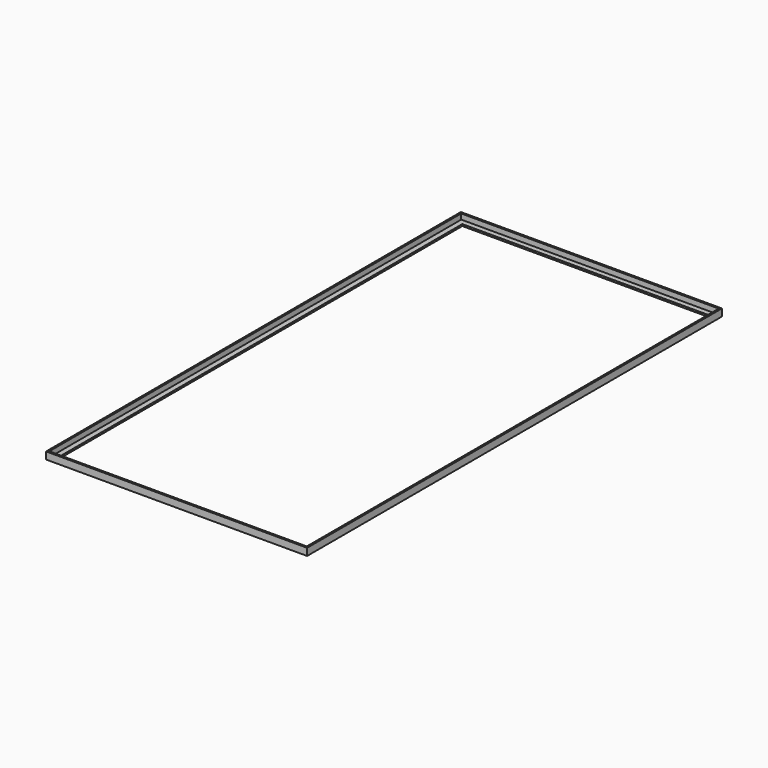
from build123d import *


with BuildPart() as f2:
    # F2: sweep along a path in F0
    with BuildLine(Plane.XY) as f2_path:
        Line((228.6, -457.2), (228.6, 457.2))
        Line((228.6, 457.2), (-228.6, 457.2))
        Line((-228.6, 457.2), (-228.6, -457.2))
        Line((-228.6, -457.2), (228.6, -457.2))
    # F1 (on Front) → F2 (sweep)
    with BuildSketch(Plane.XZ):
        Polygon((231.775, -3.175), (231.775, 9.525), (228.6, 9.525), (228.6, 0), (219.075, 0), (219.075, -3.175), align=None)
    sweep(path=f2_path.line, transition=Transition.RIGHT)


solid = f2.part
